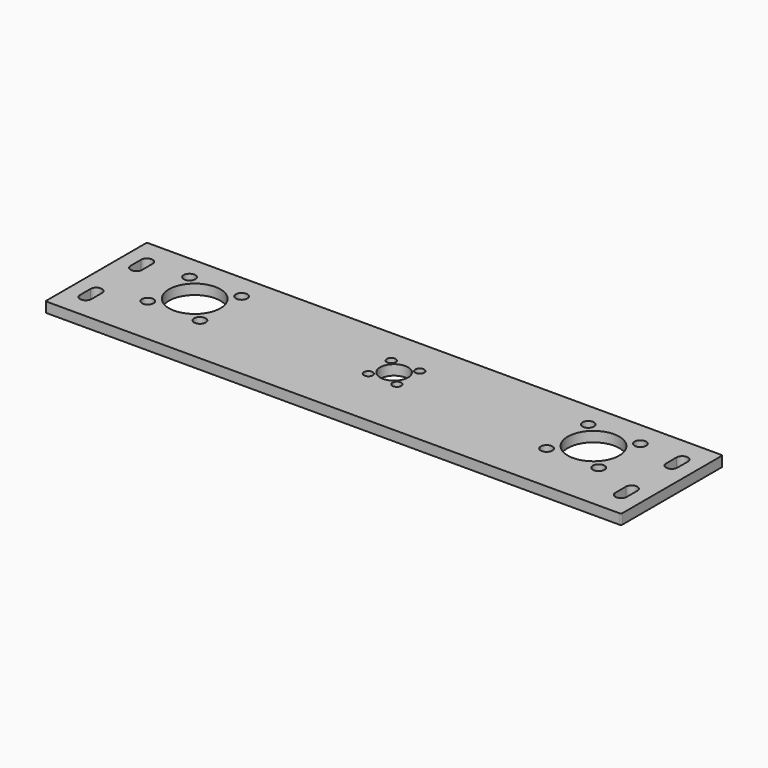
from build123d import *

# Parameters (mm, degrees)
F0_R     = 2.265
F0_R_2   = 1.75
F0_R_3   = 10.1
F0_R_4   = 5.475
F1_DEPTH = 3.97


with BuildPart() as f1:
    # F0 (on Top) → F1 (new body)
    with BuildSketch(Plane.XY):
        with BuildLine():
            Line((113.550252, 1.503936), (-111.449748, 1.503936))
            ThreePointArc((-111.449748, 1.503936), (-111.803301, 1.357489), (-111.949748, 1.003936))
            Line((-111.949748, 1.003936), (-111.949748, -47.766064))
            ThreePointArc((-111.949748, -47.766064), (-111.803301, -48.119618), (-111.449748, -48.266064))
            Line((-111.449748, -48.266064), (113.550252, -48.266064))
            ThreePointArc((113.550252, -48.266064), (113.903806, -48.119618), (114.050252, -47.766064))
            Line((114.050252, -47.766064), (114.050252, 1.003936))
            ThreePointArc((114.050252, 1.003936), (113.903806, 1.357489), (113.550252, 1.503936))
        make_face()
        with BuildLine():
            Line((-101.799748, -33.231064), (-101.799748, -38.381064))
            ThreePointArc((-101.799748, -38.381064), (-104.024748, -40.606064), (-106.249748, -38.381064))
            Line((-106.249748, -38.381064), (-106.249748, -33.231064))
            ThreePointArc((-106.249748, -33.231064), (-104.024748, -31.006064), (-101.799748, -33.231064))
        make_face(mode=Mode.SUBTRACT)
        with Locations((-87.446279, -28.647596)):
            Circle(F0_R, mode=Mode.SUBTRACT)
        with Locations((-66.993216, -28.647596)):
            Circle(F0_R, mode=Mode.SUBTRACT)
        with Locations((-4.54473, -24.016047)):
            Circle(F0_R_2, mode=Mode.SUBTRACT)
        with Locations((6.645235, -24.016047)):
            Circle(F0_R_2, mode=Mode.SUBTRACT)
        with BuildLine():
            Line((103.900252, -38.381064), (103.900252, -33.231064))
            ThreePointArc((103.900252, -33.231064), (106.125252, -31.006064), (108.350252, -33.231064))
            Line((108.350252, -33.231064), (108.350252, -38.381064))
            ThreePointArc((108.350252, -38.381064), (106.125252, -40.606064), (103.900252, -38.381064))
        make_face(mode=Mode.SUBTRACT)
        with Locations((69.093721, -28.647596)):
            Circle(F0_R, mode=Mode.SUBTRACT)
        with Locations((89.546784, -28.647596)):
            Circle(F0_R, mode=Mode.SUBTRACT)
        with Locations((-77.219748, -18.421064)):
            Circle(F0_R_3, mode=Mode.SUBTRACT)
        with BuildLine():
            Line((-106.249748, -13.531064), (-106.249748, -8.381064))
            ThreePointArc((-106.249748, -8.381064), (-104.024748, -6.156064), (-101.799748, -8.381064))
            Line((-101.799748, -8.381064), (-101.799748, -13.531064))
            ThreePointArc((-101.799748, -13.531064), (-104.024748, -15.756064), (-106.249748, -13.531064))
        make_face(mode=Mode.SUBTRACT)
        with Locations((1.050252, -18.421064)):
            Circle(F0_R_4, mode=Mode.SUBTRACT)
        with Locations((-4.54473, -12.826082)):
            Circle(F0_R_2, mode=Mode.SUBTRACT)
        with Locations((-87.446279, -8.194533)):
            Circle(F0_R, mode=Mode.SUBTRACT)
        with Locations((-66.993216, -8.194533)):
            Circle(F0_R, mode=Mode.SUBTRACT)
        with Locations((6.645235, -12.826082)):
            Circle(F0_R_2, mode=Mode.SUBTRACT)
        with Locations((79.320252, -18.421064)):
            Circle(F0_R_3, mode=Mode.SUBTRACT)
        with BuildLine():
            ThreePointArc((103.900252, -8.381064), (106.125252, -6.156064), (108.350252, -8.381064))
            Line((108.350252, -8.381064), (108.350252, -13.531064))
            ThreePointArc((108.350252, -13.531064), (106.125252, -15.756064), (103.900252, -13.531064))
            Line((103.900252, -13.531064), (103.900252, -8.381064))
        make_face(mode=Mode.SUBTRACT)
        with Locations((69.093721, -8.194533)):
            Circle(F0_R, mode=Mode.SUBTRACT)
        with Locations((89.546784, -8.194533)):
            Circle(F0_R, mode=Mode.SUBTRACT)
    extrude(amount=F1_DEPTH)


solid = f1.part
